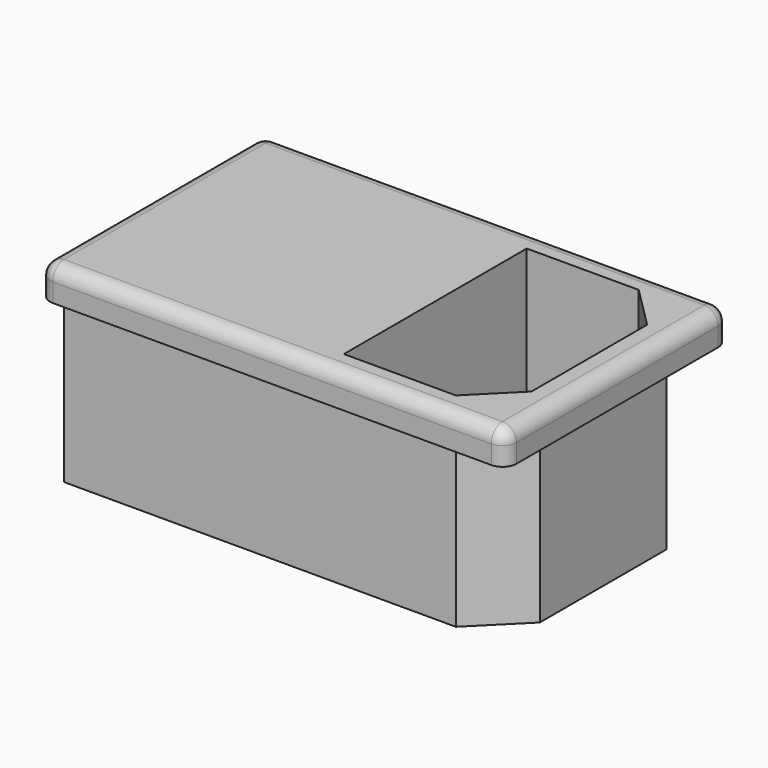
from build123d import *

# Parameters (mm, degrees)
F0_W     = 47
F0_H     = 27
F1_DEPTH = 17.5
F0_W_2   = 50
F0_H_2   = 30
F2_DEPTH = 3.5
F3_W     = 16.5
F3_H     = 24.5
F4_DEPTH = 19.5
F5_SIZE  = 4.5
F6_SIZE  = 5
F7_R     = 1.5


with BuildPart() as f1:
    # F0 (on Top) → F1 (new body)
    with BuildSketch(Plane.XY):
        Rectangle(F0_W, F0_H)
    extrude(amount=-F1_DEPTH)

    # F0 (on Top) → F2 (join)
    with BuildSketch(Plane.XY):
        Rectangle(F0_W_2, F0_H_2)
        Rectangle(F0_W, F0_H, mode=Mode.SUBTRACT)
        Rectangle(F0_W, F0_H)
    extrude(amount=F2_DEPTH)

    # F3 (on face) → F4 (cut)
    with BuildSketch(Plane.XY.offset(3.5)):
        with Locations((13.75, 0)):
            Rectangle(F3_W, F3_H)
    extrude(amount=-F4_DEPTH, mode=Mode.SUBTRACT)

    # F5
    f5_edges = [f1.edges().sort_by_distance(p)[0] for p in [
        (22, 12.25, -6.25),
        (22, -12.25, -6.25),
    ]]
    chamfer(f5_edges, length=F5_SIZE)

    # F6
    f6_edges = [f1.edges().sort_by_distance(p)[0] for p in [
        (23.5, 13.5, -8.75),
        (23.5, -13.5, -8.75),
    ]]
    chamfer(f6_edges, length=F6_SIZE)

    # F7
    f7_edges = [f1.edges().sort_by_distance(p)[0] for p in [
        (-25, 0, 3.5),
        (0, 15, 3.5),
        (25, 0, 3.5),
        (0, -15, 3.5),
        (25, -15, 1.75),
        (25, 15, 1.75),
        (-25, -15, 1.75),
        (-25, 15, 1.75),
    ]]
    fillet(f7_edges, radius=F7_R)


solid = f1.part
